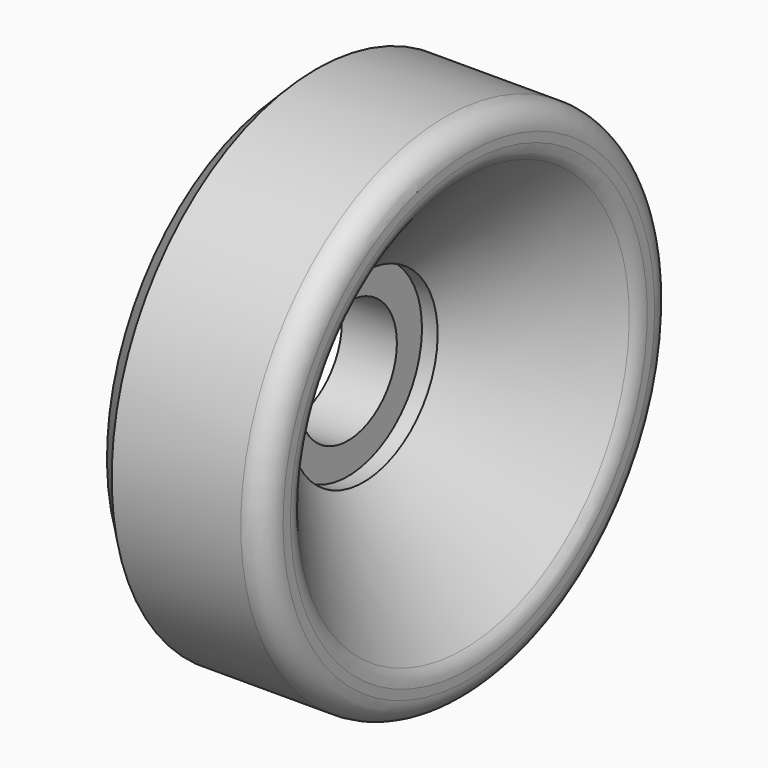
from build123d import *

# Parameters (mm, degrees)
F2_R    = 5.08
F3_SIZE = 5.08


with BuildPart() as f1:
    # F0 (on Front) → F1 (revolve)
    with BuildSketch(Plane.XZ):
        Polygon((0, 55.314001), (0, 13.251298), (11.915691, 13.251298), (11.915691, 20.03995), (15.310015, 20.03995), (38.080281, 46.34597), (38.080281, 55.314001), align=None)
    revolve(axis=Axis((25.323285, 0, 0), (1, 0, 0)))

    # F2
    f2_edges = [f1.edges().sort_by_distance(p)[0] for p in [
        (38.080281, 0, -46.34597),
        (38.080281, 0, -55.314001),
    ]]
    fillet(f2_edges, radius=F2_R)

    # F3
    f3_edges = [f1.edges().sort_by_distance(p)[0] for p in [
        (0, 0, -55.314001),
    ]]
    chamfer(f3_edges, length=F3_SIZE)


solid = f1.part
